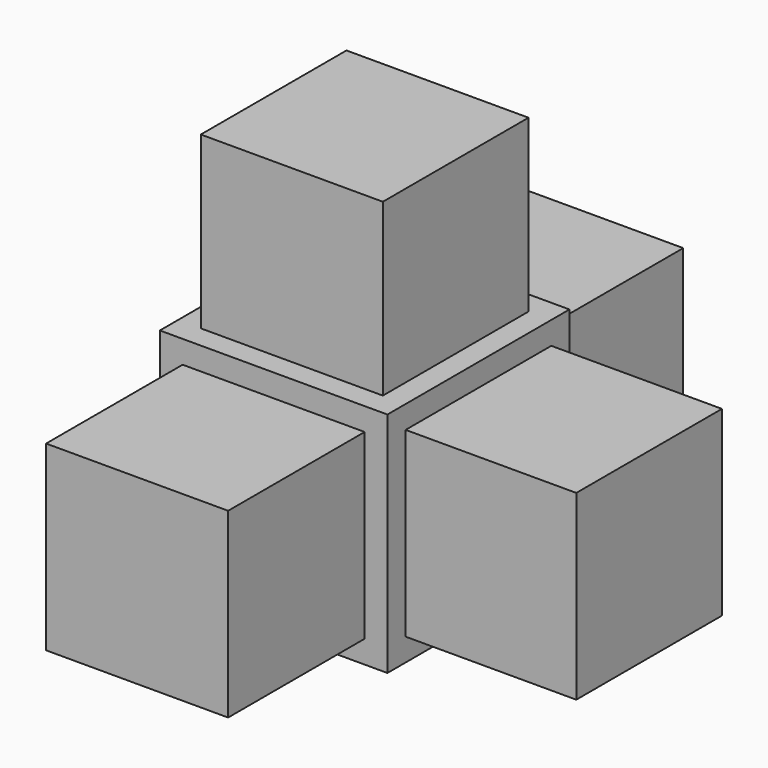
from build123d import *

# Parameters (mm, degrees)
F0_W     = 20
F0_H     = 20
F1_DEPTH = 20
F2_W     = 16
F2_H     = 16
F3_DEPTH = 15
F4_W     = 16
F4_H     = 16
F5_DEPTH = 15
F6_W     = 16
F6_H     = 16
F7_DEPTH = 15
F8_W     = 16
F8_H     = 16
F9_DEPTH = 15


with BuildPart() as f1:
    # F0 (on Front) → F1 (new body)
    with BuildSketch(Plane.XZ):
        with Locations((10, -10)):
            Rectangle(F0_W, F0_H)
    extrude(amount=F1_DEPTH)

    # F2 (on face) → F3 (join)
    with BuildSketch(Plane.XY):
        with Locations((10, -10)):
            Rectangle(F2_W, F2_H)
    extrude(amount=F3_DEPTH)

    # F4 (on face) → F5 (join)
    with BuildSketch(Plane(origin=(0, 0, 0), x_dir=(-1, 0, 0), z_dir=(0, 1, 0))):
        with Locations((-10, -10)):
            Rectangle(F4_W, F4_H)
    extrude(amount=F5_DEPTH)

    # F6 (on face) → F7 (join)
    with BuildSketch(Plane.YZ.offset(20)):
        with Locations((-10, -10)):
            Rectangle(F6_W, F6_H)
    extrude(amount=F7_DEPTH)

    # F8 (on face) → F9 (join)
    with BuildSketch(Plane.XZ.offset(20)):
        with Locations((10, -10)):
            Rectangle(F8_W, F8_H)
    extrude(amount=F9_DEPTH)


solid = f1.part
